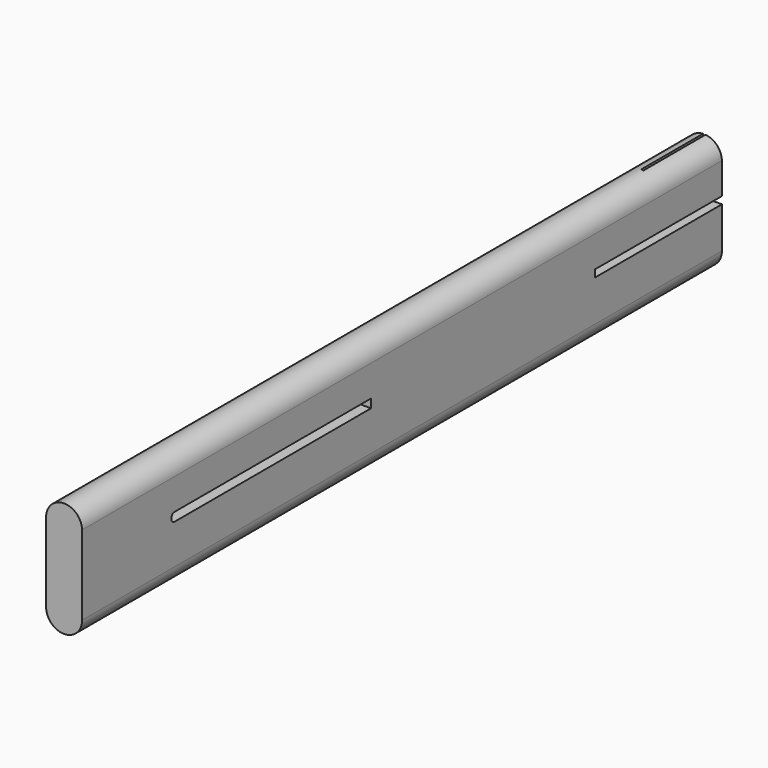
from build123d import *

# Parameters (mm, degrees)
F0_W     = 7.450324
F0_H     = 16.439302
F1_DEPTH = 165.354
F3_W     = 50.933755
F3_H     = 1.793447
F4_DEPTH = 232.41
F6_W     = 0.515365
F6_H     = 3.407134
F7_DEPTH = 43.6118
F8_W     = 37.184134
F8_H     = 1.494539
F9_DEPTH = 232.41


with BuildPart() as f1:
    # F0 (on Front) → F1 (new body)
    with BuildSketch(Plane.XZ):
        with BuildLine():
            Line((-3.806144, 16.439302), (3.64418, 16.439302))
            ThreePointArc((3.64418, 16.439302), (-0.080982, 20.048889), (-3.806144, 16.439302))
        make_face()
        with Locations((-0.080982, 8.219651)):
            Rectangle(F0_W, F0_H)
        with BuildLine():
            ThreePointArc((-3.806144, 0), (-0.080982, -3.725162), (3.64418, 0))
            Line((3.64418, 0), (-3.806144, 0))
        make_face()
    extrude(amount=-F1_DEPTH)

    # F3 (on offset) → F4 (cut)
    with BuildSketch(Plane.YZ.offset(139.7)):
        with BuildLine():
            Line((23.742341, 8.20523), (23.742341, 9.998677))
            ThreePointArc((23.742341, 9.998677), (23.042202, 9.101954), (23.742341, 8.20523))
        make_face()
        with Locations((49.209218, 9.101954)):
            Rectangle(F3_W, F3_H)
    extrude(amount=-F4_DEPTH, mode=Mode.SUBTRACT)

    # F6 (on offset) → F7 (cut)
    with BuildSketch(Plane.XZ.offset(-149.352)):
        with Locations((-0.015719, 18.905162)):
            Rectangle(F6_W, F6_H)
    extrude(amount=-F7_DEPTH, mode=Mode.SUBTRACT)

    # F8 (on offset) → F9 (cut)
    with BuildSketch(Plane.YZ.offset(139.7)):
        with Locations((151.09729, 9.224657)):
            Rectangle(F8_W, F8_H)
    extrude(amount=-F9_DEPTH, mode=Mode.SUBTRACT)


solid = f1.part
